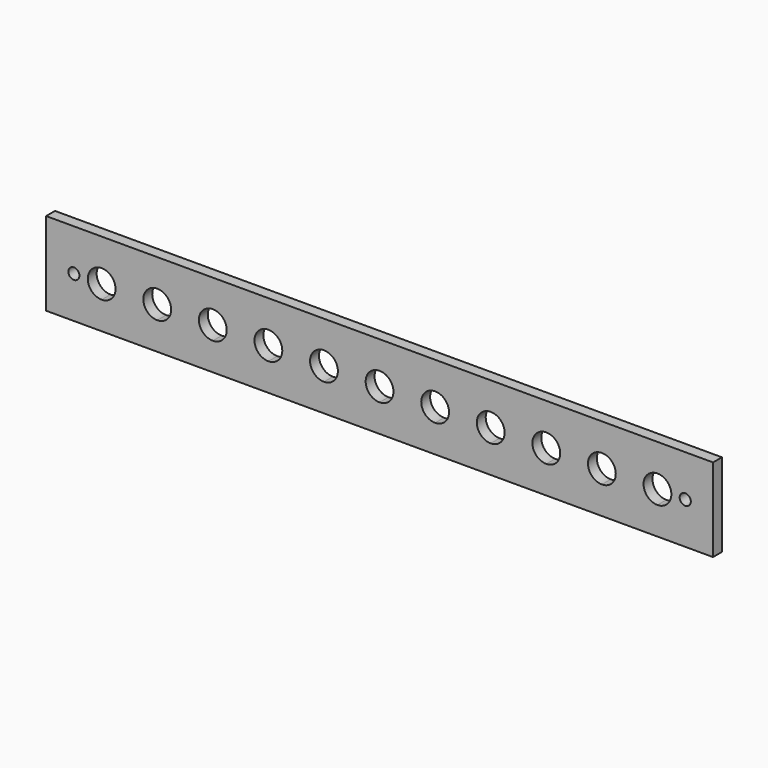
from build123d import *

# Parameters (mm, degrees)
F0_W     = 240
F0_H     = 30
F0_R     = 2
F1_DEPTH = 4


with BuildPart() as f1:
    # F0 (on Front) → F1 (new body)
    with BuildSketch(Plane.XZ):
        Rectangle(F0_W, F0_H)
        with Locations((-110, 0)):
            Circle(F0_R, mode=Mode.SUBTRACT)
        with BuildLine():
            ThreePointArc((105, 0), (103.5355339059, -3.5355339059), (100, -5))
            Line((100, -5), (80, -5))
            Line((80, -5), (60, -5))
            Line((60, -5), (40, -5))
            Line((40, -5), (20.0000000117, -5))
            Line((20.0000000117, -5), (-1.87e-08, -5))
            Line((-1.87e-08, -5), (-19.9999999883, -5))
            Line((-19.9999999883, -5), (-40, -5))
            Line((-40, -5), (-60, -5))
            Line((-60, -5), (-80, -5))
            Line((-80, -5), (-100, -5))
            ThreePointArc((-100, -5), (-105, 0), (-100, 5))
            Line((-100, 5), (-80, 5))
            Line((-80, 5), (-60, 5))
            Line((-60, 5), (-40, 5))
            Line((-40, 5), (-20, 5))
            Line((-20, 5), (-1.17e-08, 5))
            Line((-1.17e-08, 5), (20, 5))
            Line((20, 5), (40, 5))
            Line((40, 5), (60, 5))
            Line((60, 5), (80, 5))
            Line((80, 5), (100, 5))
            ThreePointArc((100, 5), (103.5355339059, 3.5355339059), (105, 0))
        make_face(mode=Mode.SUBTRACT)
        with Locations((110, 0)):
            Circle(F0_R, mode=Mode.SUBTRACT)
        with BuildLine():
            Line((-100, -5), (-80, -5))
            ThreePointArc((-80, -5), (-85, 0), (-80, 5))
            Line((-80, 5), (-100, 5))
            ThreePointArc((-100, 5), (-96.4644660941, 3.5355339059), (-95, 0))
            ThreePointArc((-95, 0), (-96.4644660941, -3.5355339059), (-100, -5))
        make_face()
        with BuildLine():
            Line((-80, -5), (-60, -5))
            ThreePointArc((-60, -5), (-65, 0), (-60, 5))
            Line((-60, 5), (-80, 5))
            ThreePointArc((-80, 5), (-76.4644660941, 3.5355339059), (-75, 0))
            ThreePointArc((-75, 0), (-76.4644660941, -3.5355339059), (-80, -5))
        make_face()
        with BuildLine():
            Line((-60, -5), (-40, -5))
            ThreePointArc((-40, -5), (-45, 0), (-40, 5))
            Line((-40, 5), (-60, 5))
            ThreePointArc((-60, 5), (-56.4644660941, 3.5355339059), (-55, 0))
            ThreePointArc((-55, 0), (-56.4644660941, -3.5355339059), (-60, -5))
        make_face()
        with BuildLine():
            Line((-40, -5), (-19.9999999883, -5))
            ThreePointArc((-19.9999999883, -5), (-25, -5.8e-09), (-20, 5))
            Line((-20, 5), (-40, 5))
            ThreePointArc((-40, 5), (-36.4644660941, 3.5355339059), (-35, 0))
            ThreePointArc((-35, 0), (-36.4644660941, -3.5355339059), (-40, -5))
        make_face()
        with BuildLine():
            Line((-19.9999999883, -5), (-1.87e-08, -5))
            ThreePointArc((-1.87e-08, -5), (-5, 3.5e-09), (-1.17e-08, 5))
            Line((-1.17e-08, 5), (-20, 5))
            ThreePointArc((-20, 5), (-16.4644660941, 3.5355339059), (-15, 0))
            ThreePointArc((-15, 0), (-16.4644660899, -3.5355339018), (-19.9999999883, -5))
        make_face()
        with BuildLine():
            Line((-1.87e-08, -5), (20.0000000117, -5))
            ThreePointArc((20.0000000117, -5), (15, -5.8e-09), (20, 5))
            Line((20, 5), (-1.17e-08, 5))
            ThreePointArc((-1.17e-08, 5), (3.5355339018, 3.5355339101), (5, 0))
            ThreePointArc((5, 0), (3.5355338993, -3.5355339125), (-1.87e-08, -5))
        make_face()
        with BuildLine():
            Line((20.0000000117, -5), (40, -5))
            ThreePointArc((40, -5), (35, 0), (40, 5))
            Line((40, 5), (20, 5))
            ThreePointArc((20, 5), (23.5355339059, 3.5355339059), (25, 0))
            ThreePointArc((25, 0), (23.5355339101, -3.5355339018), (20.0000000117, -5))
        make_face()
        with BuildLine():
            Line((40, -5), (60, -5))
            ThreePointArc((60, -5), (55, 0), (60, 5))
            Line((60, 5), (40, 5))
            ThreePointArc((40, 5), (43.5355339059, 3.5355339059), (45, 0))
            ThreePointArc((45, 0), (43.5355339059, -3.5355339059), (40, -5))
        make_face()
        with BuildLine():
            Line((60, -5), (80, -5))
            ThreePointArc((80, -5), (75, 0), (80, 5))
            Line((80, 5), (60, 5))
            ThreePointArc((60, 5), (63.5355339059, 3.5355339059), (65, 0))
            ThreePointArc((65, 0), (63.5355339059, -3.5355339059), (60, -5))
        make_face()
        with BuildLine():
            Line((80, -5), (100, -5))
            ThreePointArc((100, -5), (95, 0), (100, 5))
            Line((100, 5), (80, 5))
            ThreePointArc((80, 5), (83.5355339059, 3.5355339059), (85, 0))
            ThreePointArc((85, 0), (83.5355339059, -3.5355339059), (80, -5))
        make_face()
    extrude(amount=F1_DEPTH)


solid = f1.part
